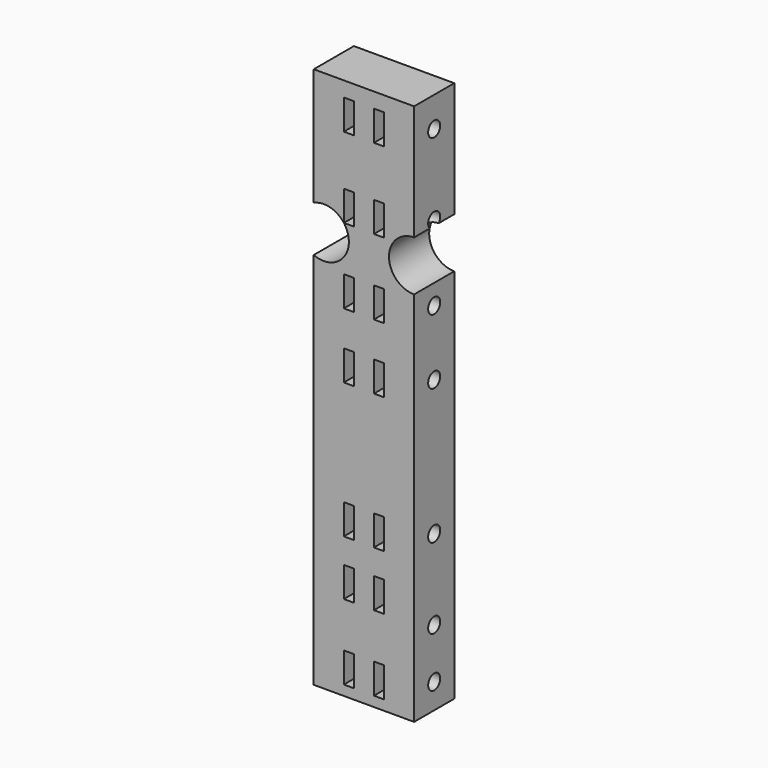
from build123d import *

# Parameters (mm, degrees)
BOX183_W               = 16
BOX183_H               = 6
BOX183_DEPTH           = 2
BOX184_W               = 16
BOX184_H               = 6
BOX184_DEPTH           = 2
BOX185_W               = 16
BOX185_H               = 6
BOX185_DEPTH           = 2
BOX186_W               = 16
BOX186_H               = 6
BOX186_DEPTH           = 2
BOX187_W               = 16
BOX187_H               = 6
BOX187_DEPTH           = 2
BOX188_W               = 16
BOX188_H               = 6
BOX188_DEPTH           = 2
BOX189_W               = 16
BOX189_H               = 6
BOX189_DEPTH           = 2
BOX190_W               = 16
BOX190_H               = 6
BOX190_DEPTH           = 2
BOX191_W               = 16
BOX191_H               = 6
BOX191_DEPTH           = 2
BOX192_W               = 16
BOX192_H               = 6
BOX192_DEPTH           = 2
BOX193_W               = 16
BOX193_H               = 6
BOX193_DEPTH           = 2
BOX194_W               = 16
BOX194_H               = 6
BOX194_DEPTH           = 2
BOX195_W               = 16
BOX195_H               = 6
BOX195_DEPTH           = 2
BOX182_W               = 16
BOX182_H               = 6
BOX182_DEPTH           = 2
CYLINDER440_R          = 1.5
CYLINDER440_DEPTH      = 50
CYLINDER441_R          = 1.5
CYLINDER441_DEPTH      = 50
CYLINDER442_R          = 1.5
CYLINDER442_DEPTH      = 50
CYLINDER443_R          = 1.5
CYLINDER443_DEPTH      = 50
CYLINDER444_R          = 1.5
CYLINDER444_DEPTH      = 50
CYLINDER445_R          = 1.5
CYLINDER445_DEPTH      = 50
CYLINDER439_R          = 1.5
CYLINDER439_DEPTH      = 50
CYLINDER432_R          = 5
CYLINDER432_DEPTH      = 100
CYLINDER433_R          = 5
CYLINDER433_DEPTH      = 100
CYLINDER434_R          = 5
CYLINDER434_DEPTH      = 100
CYLINDER435_R          = 5
CYLINDER435_DEPTH      = 100
CYLINDER436_R          = 5
CYLINDER436_DEPTH      = 100
CYLINDER437_R          = 5
CYLINDER437_DEPTH      = 100
CYLINDER438_R          = 5
CYLINDER438_DEPTH      = 100
CYLINDER431_R          = 5
CYLINDER431_DEPTH      = 100
BOX181_W               = 10
BOX181_H               = 108
BOX181_DEPTH           = 20
CUT365_ROLL_ANGLE      = 90
CUT365_PLACEMENT_ANGLE = -90


with BuildPart() as krychle183:
    # Box183 → Box183 (new body)
    with BuildSketch(Plane(origin=(60, 2, 16), x_dir=(1, 0, 0), z_dir=(0, 0, 1))):
        with Locations((8, 3)):
            Rectangle(BOX183_W, BOX183_H)
    extrude(amount=BOX183_DEPTH)


with BuildPart() as krychle184:
    # Box184 → Box184 (new body)
    with BuildSketch(Plane(origin=(60, -25, 10), x_dir=(1, 0, 0), z_dir=(0, 0, 1))):
        with Locations((8, 3)):
            Rectangle(BOX184_W, BOX184_H)
    extrude(amount=BOX184_DEPTH)


with BuildPart() as krychle185:
    # Box185 → Box185 (new body)
    with BuildSketch(Plane(origin=(60, -25, 16), x_dir=(1, 0, 0), z_dir=(0, 0, 1))):
        with Locations((8, 3)):
            Rectangle(BOX185_W, BOX185_H)
    extrude(amount=BOX185_DEPTH)


with BuildPart() as krychle186:
    # Box186 → Box186 (new body)
    with BuildSketch(Plane(origin=(60, -36, 10), x_dir=(1, 0, 0), z_dir=(0, 0, 1))):
        with Locations((8, 3)):
            Rectangle(BOX186_W, BOX186_H)
    extrude(amount=BOX186_DEPTH)


with BuildPart() as krychle187:
    # Box187 → Box187 (new body)
    with BuildSketch(Plane(origin=(60, -36, 16), x_dir=(1, 0, 0), z_dir=(0, 0, 1))):
        with Locations((8, 3)):
            Rectangle(BOX187_W, BOX187_H)
    extrude(amount=BOX187_DEPTH)


with BuildPart() as krychle188:
    # Box188 → Box188 (new body)
    with BuildSketch(Plane(origin=(60, -51, 10), x_dir=(1, 0, 0), z_dir=(0, 0, 1))):
        with Locations((8, 3)):
            Rectangle(BOX188_W, BOX188_H)
    extrude(amount=BOX188_DEPTH)


with BuildPart() as krychle189:
    # Box189 → Box189 (new body)
    with BuildSketch(Plane(origin=(60, -51, 16), x_dir=(1, 0, 0), z_dir=(0, 0, 1))):
        with Locations((8, 3)):
            Rectangle(BOX189_W, BOX189_H)
    extrude(amount=BOX189_DEPTH)


with BuildPart() as krychle190:
    # Box190 → Box190 (new body)
    with BuildSketch(Plane(origin=(60, 15, 10), x_dir=(1, 0, 0), z_dir=(0, 0, 1))):
        with Locations((8, 3)):
            Rectangle(BOX190_W, BOX190_H)
    extrude(amount=BOX190_DEPTH)


with BuildPart() as krychle191:
    # Box191 → Box191 (new body)
    with BuildSketch(Plane(origin=(60, 30, 10), x_dir=(1, 0, 0), z_dir=(0, 0, 1))):
        with Locations((8, 3)):
            Rectangle(BOX191_W, BOX191_H)
    extrude(amount=BOX191_DEPTH)


with BuildPart() as krychle192:
    # Box192 → Box192 (new body)
    with BuildSketch(Plane(origin=(60, 46, 10), x_dir=(1, 0, 0), z_dir=(0, 0, 1))):
        with Locations((8, 3)):
            Rectangle(BOX192_W, BOX192_H)
    extrude(amount=BOX192_DEPTH)


with BuildPart() as krychle193:
    # Box193 → Box193 (new body)
    with BuildSketch(Plane(origin=(60, 15, 16), x_dir=(1, 0, 0), z_dir=(0, 0, 1))):
        with Locations((8, 3)):
            Rectangle(BOX193_W, BOX193_H)
    extrude(amount=BOX193_DEPTH)


with BuildPart() as krychle194:
    # Box194 → Box194 (new body)
    with BuildSketch(Plane(origin=(60, 30, 16), x_dir=(1, 0, 0), z_dir=(0, 0, 1))):
        with Locations((8, 3)):
            Rectangle(BOX194_W, BOX194_H)
    extrude(amount=BOX194_DEPTH)


with BuildPart() as krychle195:
    # Box195 → Box195 (new body)
    with BuildSketch(Plane(origin=(60, 46, 16), x_dir=(1, 0, 0), z_dir=(0, 0, 1))):
        with Locations((8, 3)):
            Rectangle(BOX195_W, BOX195_H)
    extrude(amount=BOX195_DEPTH)


with BuildPart() as compound585:
    # Box182 → Box182 (new body)
    with BuildSketch(Plane(origin=(60, 2, 10), x_dir=(1, 0, 0), z_dir=(0, 0, 1))):
        with Locations((8, 3)):
            Rectangle(BOX182_W, BOX182_H)
    extrude(amount=BOX182_DEPTH)

    # Compound585: union Krychle183, Krychle184, Krychle185, Krychle186, Krychle187, Krychle188, Krychle189, Krychle190, Krychle191, Krychle192, Krychle193, Krychle194, Krychle195
    add(krychle183.part)
    add(krychle184.part)
    add(krychle185.part)
    add(krychle186.part)
    add(krychle187.part)
    add(krychle188.part)
    add(krychle189.part)
    add(krychle190.part)
    add(krychle191.part)
    add(krychle192.part)
    add(krychle193.part)
    add(krychle194.part)
    add(krychle195.part)


with BuildPart() as compound585_1:
    # Compound585 placement: moved
    add(compound585.part.moved(Location((39, 24, 3))))


with BuildPart() as obj1:
    # Cylinder440 → Cylinder440 (new body)
    with BuildSketch(Plane(origin=(63, -22, -12), x_dir=(1, 0, 0), z_dir=(0, 0, 1))):
        Circle(CYLINDER440_R)
    extrude(amount=CYLINDER440_DEPTH)


with BuildPart() as obj2:
    # Cylinder441 → Cylinder441 (new body)
    with BuildSketch(Plane(origin=(63, -38, -12), x_dir=(1, 0, 0), z_dir=(0, 0, 1))):
        Circle(CYLINDER441_R)
    extrude(amount=CYLINDER441_DEPTH)


with BuildPart() as obj3:
    # Cylinder442 → Cylinder442 (new body)
    with BuildSketch(Plane(origin=(63, -48, -12), x_dir=(1, 0, 0), z_dir=(0, 0, 1))):
        Circle(CYLINDER442_R)
    extrude(amount=CYLINDER442_DEPTH)


with BuildPart() as obj4:
    # Cylinder443 → Cylinder443 (new body)
    with BuildSketch(Plane(origin=(63, 18, -12), x_dir=(1, 0, 0), z_dir=(0, 0, 1))):
        Circle(CYLINDER443_R)
    extrude(amount=CYLINDER443_DEPTH)


with BuildPart() as obj5:
    # Cylinder444 → Cylinder444 (new body)
    with BuildSketch(Plane(origin=(63, 33, -12), x_dir=(1, 0, 0), z_dir=(0, 0, 1))):
        Circle(CYLINDER444_R)
    extrude(amount=CYLINDER444_DEPTH)


with BuildPart() as obj6:
    # Cylinder445 → Cylinder445 (new body)
    with BuildSketch(Plane(origin=(63, 49, -12), x_dir=(1, 0, 0), z_dir=(0, 0, 1))):
        Circle(CYLINDER445_R)
    extrude(amount=CYLINDER445_DEPTH)


with BuildPart() as compound590:
    # Cylinder439 → Cylinder439 (new body)
    with BuildSketch(Plane(origin=(63, 5, -12), x_dir=(1, 0, 0), z_dir=(0, 0, 1))):
        Circle(CYLINDER439_R)
    extrude(amount=CYLINDER439_DEPTH)

    # Compound590: union obj1, obj2, obj3, obj4, obj5, obj6
    add(obj1.part)
    add(obj2.part)
    add(obj3.part)
    add(obj4.part)
    add(obj5.part)
    add(obj6.part)


with BuildPart() as compound590_1:
    # Compound590 placement: moved
    add(compound590.part.moved(Location((39, 24, 0))))


with BuildPart() as obj7:
    # Cylinder432 → Cylinder432 (new body)
    with BuildSketch(Plane(origin=(24, -51, 25), x_dir=(0, 0, -1), z_dir=(1, 0, 0))):
        Circle(CYLINDER432_R)
    extrude(amount=CYLINDER432_DEPTH)


with BuildPart() as obj8:
    # Cylinder433 → Cylinder433 (new body)
    with BuildSketch(Plane(origin=(24, 36, 34), x_dir=(0, 0, -1), z_dir=(1, 0, 0))):
        Circle(CYLINDER433_R)
    extrude(amount=CYLINDER433_DEPTH)


with BuildPart() as obj9:
    # Cylinder434 → Cylinder434 (new body)
    with BuildSketch(Plane(origin=(24, -36, 34), x_dir=(0, 0, -1), z_dir=(1, 0, 0))):
        Circle(CYLINDER434_R)
    extrude(amount=CYLINDER434_DEPTH)


with BuildPart() as obj10:
    # Cylinder435 → Cylinder435 (new body)
    with BuildSketch(Plane(origin=(24, -23, -5), x_dir=(0, 0, -1), z_dir=(1, 0, 0))):
        Circle(CYLINDER435_R)
    extrude(amount=CYLINDER435_DEPTH)


with BuildPart() as obj11:
    # Cylinder436 → Cylinder436 (new body)
    with BuildSketch(Plane(origin=(24, 51, 7), x_dir=(0, 0, -1), z_dir=(1, 0, 0))):
        Circle(CYLINDER436_R)
    extrude(amount=CYLINDER436_DEPTH)


with BuildPart() as obj12:
    # Cylinder437 → Cylinder437 (new body)
    with BuildSketch(Plane(origin=(24, 23, -5), x_dir=(0, 0, -1), z_dir=(1, 0, 0))):
        Circle(CYLINDER437_R)
    extrude(amount=CYLINDER437_DEPTH)


with BuildPart() as obj13:
    # Cylinder438 → Cylinder438 (new body)
    with BuildSketch(Plane(origin=(24, -51, 7), x_dir=(0, 0, -1), z_dir=(1, 0, 0))):
        Circle(CYLINDER438_R)
    extrude(amount=CYLINDER438_DEPTH)


with BuildPart() as compound589:
    # Cylinder431 → Cylinder431 (new body)
    with BuildSketch(Plane(origin=(24, 51, 25), x_dir=(0, 0, -1), z_dir=(1, 0, 0))):
        Circle(CYLINDER431_R)
    extrude(amount=CYLINDER431_DEPTH)

    # Compound589: union obj7, obj8, obj9, obj10, obj11, obj12, obj13
    add(obj7.part)
    add(obj8.part)
    add(obj9.part)
    add(obj10.part)
    add(obj11.part)
    add(obj12.part)
    add(obj13.part)


with BuildPart() as compound589_1:
    # Compound589 placement: moved
    add(compound589.part.moved(Location((32, 0, 0))))


with BuildPart() as obj14:
    # Box181 → Box181 (new body)
    with BuildSketch(Plane(origin=(97, -29, 7), x_dir=(1, 0, 0), z_dir=(0, 0, 1))):
        with Locations((5, 54)):
            Rectangle(BOX181_W, BOX181_H)
    extrude(amount=BOX181_DEPTH)

    # Cut363: cut Compound589
    add(compound589_1.part, mode=Mode.SUBTRACT)

    # Cut364: cut Compound590
    add(compound590_1.part, mode=Mode.SUBTRACT)

    # Cut365: cut Compound585
    add(compound585_1.part, mode=Mode.SUBTRACT)


with BuildPart() as obj14_1:
    # Cut365 roll: moved
    add(obj14.part.rotate(Axis((0, 0, 0), (1, 0, 0)), CUT365_ROLL_ANGLE))


with BuildPart() as obj14_2:
    # Cut365 placement: moved
    add(obj14_1.part.moved(Location((17, 144, -56))).rotate(Axis((17, 144, -56), (0, 0, 1)), CUT365_PLACEMENT_ANGLE))


solid = obj14_2.part
